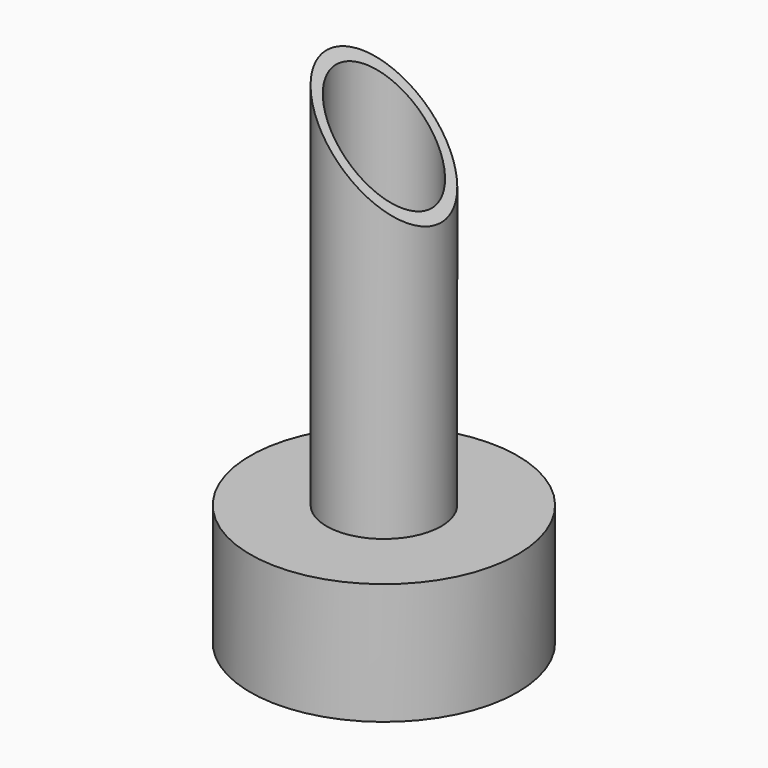
from build123d import *

# Parameters (mm, degrees)
F0_R     = 3
F0_R_2   = 2.5
F1_DEPTH = 20
F2_R     = 7
F2_R_2   = 6
F3_DEPTH = 6.35
F4_R     = 6
F4_R_2   = 2.5
F5_DEPTH = 1
F7_DEPTH = 12.7


with BuildPart() as f1:
    # F0 (on Top) → F1 (new body)
    with BuildSketch(Plane.XY):
        Circle(F0_R)
        Circle(F0_R_2, mode=Mode.SUBTRACT)
    extrude(amount=F1_DEPTH)



with BuildPart() as f3:
    # F2 (on Top) → F3 (new body)
    with BuildSketch(Plane.XY):
        Circle(F2_R)
        Circle(F2_R_2, mode=Mode.SUBTRACT)
    extrude(amount=-F3_DEPTH)


with BuildPart() as f1_1:
    add(f1.part)

    add(f3.part)  # F5 merges F3
    # F4 (on Top) → F5 (join)
    with BuildSketch(Plane.XY):
        Circle(F4_R)
        Circle(F4_R_2, mode=Mode.SUBTRACT)
    extrude(amount=-F5_DEPTH)

    # F6 (on Front) → F7 (cut, symmetric)
    with BuildSketch(Plane.XZ):
        Polygon((3, 20), (-3, 20), (3, 14), align=None)
    extrude(amount=F7_DEPTH, both=True, mode=Mode.SUBTRACT)


solid = f1_1.part
